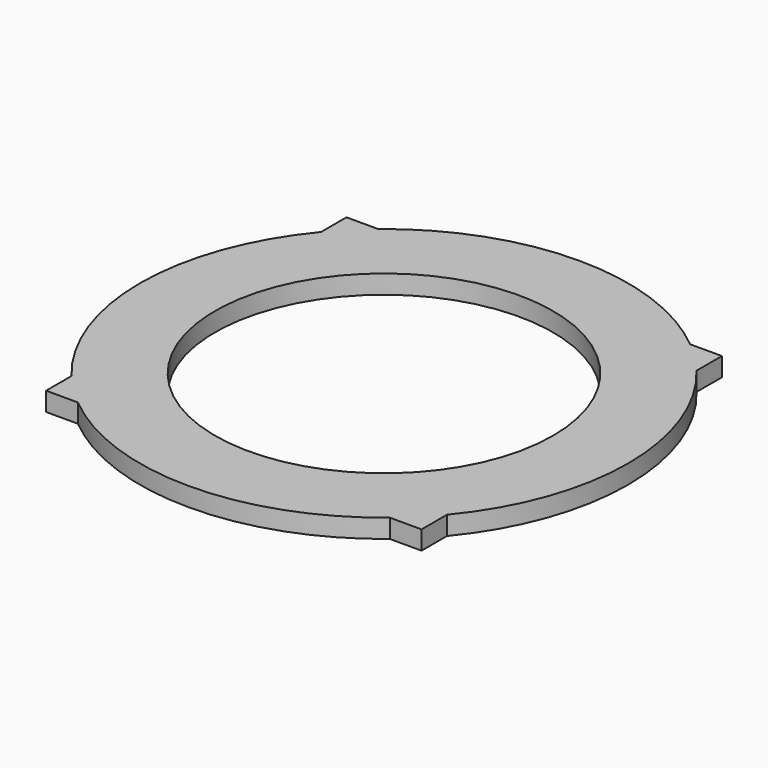
from build123d import *

# Parameters (mm, degrees)
F0_W     = 40
F0_H     = 40
F1_DEPTH = 2
F2_W     = 2
F2_H     = 40
F3_DEPTH = 2
F4_R     = 26
F5_DEPTH = 2
F6_R     = 18
F7_DEPTH = 25


with BuildPart() as f1:
    # F0 (on Top) → F1 (new body)
    with BuildSketch(Plane.XY):
        Rectangle(F0_W, F0_H)
    extrude(amount=F1_DEPTH)

    # F2 (on Top) → F3 (join)
    with BuildSketch(Plane.XY):
        with Locations((-15, 0)):
            Rectangle(F2_W, F2_H)
        with Locations((-11, 0)):
            Rectangle(F2_W, F2_H)
    extrude(amount=F3_DEPTH)

    # F4 (on Top) → F5 (join)
    with BuildSketch(Plane.XY):
        Circle(F4_R)
    extrude(amount=F5_DEPTH)

    # F6 (on face) → F7 (cut)
    with BuildSketch(Plane.XY.offset(2)):
        Circle(F6_R)
    extrude(amount=-F7_DEPTH, mode=Mode.SUBTRACT)


solid = f1.part
